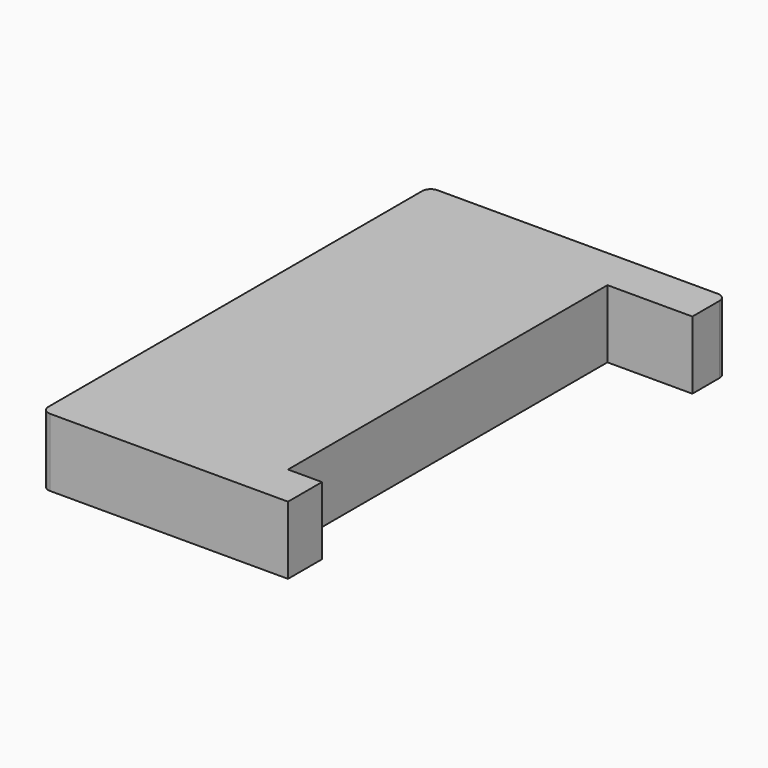
from build123d import *

# Parameters (mm, degrees)
PAD_DEPTH = 8
FILLET_R  = 1


with BuildPart() as part:
    # Sketch → Pad (new body)
    with BuildSketch(Plane.XY):
        Polygon((0, 0), (0, 47), (10, 47), (10, 52), (-25, 52), (-25, -5), (4, -5), (4, 0), align=None)
    extrude(amount=PAD_DEPTH)

    # Fillet
    fillet_edges = [part.edges().sort_by_distance(p)[0] for p in [
        (-25, 52, 4),
        (-25, -5, 4),
        (10, 52, 4),
    ]]
    fillet(fillet_edges, radius=FILLET_R)


solid = part.part
